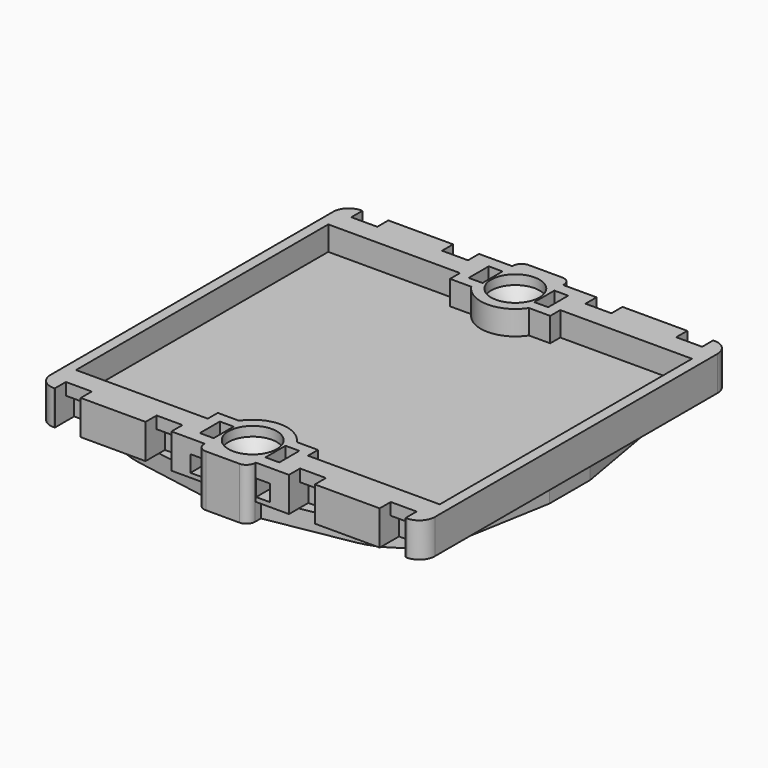
from build123d import *

# Parameters (mm, degrees)
F0_W           = 5.9
F0_H           = 1.1
F1_DEPTH       = 2.9
F2_W           = 5.9
F2_H           = 1.85
F3_DEPTH       = 2
F5_D           = 3.2
F5_CSINK_D     = 5.6
F5_CSINK_ANGLE = 82
F6_DEPTH       = 1.1
F7_R           = 1
F8_W           = 3
F8_H           = 1.2
F9_DEPTH       = 2.6
F10_W          = 1.6
F10_H          = 2.7
F10_H_2        = 1.55
F11_DEPTH      = 3.5
F12_W          = 1.6
F12_H          = 1.35
F13_DEPTH      = 1.6
F15_DEPTH      = 2.8


with BuildPart() as f1:
    # F0 (on Top) → F1 (new body)
    with BuildSketch(Plane.XY):
        with BuildLine():
            Line((4.95, 1.6), (4.95, 0))
            Line((4.95, 0), (12.45, 0))
            Line((12.45, 0), (12.45, 1.6))
            Line((12.45, 1.6), (15.45, 1.6))
            Line((15.45, 1.6), (15.45, 0))
            Line((15.45, 0), (19.3, 0))
            Line((19.3, 0), (19.3, 1.1))
            Line((19.3, 1.1), (25.2, 1.1))
            Line((25.2, 1.1), (25.2, 0))
            Line((25.2, 0), (29.05, 0))
            Line((29.05, 0), (29.05, 1.6))
            Line((29.05, 1.6), (32.05, 1.6))
            Line((32.05, 1.6), (32.05, 0))
            Line((32.05, 0), (39.55, 0))
            Line((39.55, 0), (39.55, 1.6))
            Line((39.55, 1.6), (42.55, 1.6))
            Line((42.55, 1.6), (42.55, 0))
            Line((42.55, 0), (42.7, 0))
            ThreePointArc((42.7, 0), (43.9727922061, 0.5272077939), (44.5, 1.8))
            Line((44.5, 1.8), (44.5, 42.7))
            ThreePointArc((44.5, 42.7), (43.9727922061, 43.9727922061), (42.7, 44.5))
            Line((42.7, 44.5), (42.55, 44.5))
            Line((42.55, 44.5), (42.55, 42.9))
            Line((42.55, 42.9), (39.55, 42.9))
            Line((39.55, 42.9), (39.55, 44.5))
            Line((39.55, 44.5), (32.05, 44.5))
            Line((32.05, 44.5), (32.05, 42.9))
            Line((32.05, 42.9), (29.05, 42.9))
            Line((29.05, 42.9), (29.05, 44.5))
            Line((29.05, 44.5), (25.2, 44.5))
            Line((25.2, 44.5), (25.2, 43.4))
            Line((25.2, 43.4), (19.3, 43.4))
            Line((19.3, 43.4), (19.3, 44.5))
            Line((19.3, 44.5), (15.45, 44.5))
            Line((15.45, 44.5), (15.45, 42.9))
            Line((15.45, 42.9), (12.45, 42.9))
            Line((12.45, 42.9), (12.45, 44.5))
            Line((12.45, 44.5), (4.95, 44.5))
            Line((4.95, 44.5), (4.95, 42.9))
            Line((4.95, 42.9), (1.95, 42.9))
            Line((1.95, 42.9), (1.95, 44.5))
            Line((1.95, 44.5), (1.8, 44.5))
            ThreePointArc((1.8, 44.5), (0.5272077939, 43.9727922061), (0, 42.7))
            Line((0, 42.7), (0, 1.8))
            ThreePointArc((0, 1.8), (0.5272077939, 0.5272077939), (1.8, 0))
            Line((1.8, 0), (1.95, 0))
            Line((1.95, 0), (1.95, 1.6))
            Line((1.95, 1.6), (4.95, 1.6))
        make_face()
        with Locations((22.25, -0.55)):
            Rectangle(F0_W, F0_H)
        with Locations((22.25, 0.55)):
            Rectangle(F0_W, F0_H)
        with Locations((22.25, 43.95)):
            Rectangle(F0_W, F0_H)
        with Locations((22.25, 45.05)):
            Rectangle(F0_W, F0_H)
    extrude(amount=F1_DEPTH)

    # F2 (on face) → F3 (join)
    with BuildSketch(Plane(origin=(0, 0, 0), x_dir=(1, 0, 0), z_dir=(0, 0, -1))):
        with Locations((22.25, 0.175)):
            Rectangle(F2_W, F2_H)
        with BuildLine():
            Line((25.2, -0.75), (19.3, -0.75))
            Line((19.3, -0.75), (9.7372574326, -2.4247745488))
            ThreePointArc((9.7372574326, -2.4247745488), (4.9258838609, -4.9258838609), (2.4247745488, -9.7372574326))
            Line((2.4247745488, -9.7372574326), (0.75, -19.3))
            Line((0.75, -19.3), (0.75, -25.2))
            Line((0.75, -25.2), (2.4247745488, -34.7627425674))
            ThreePointArc((2.4247745488, -34.7627425674), (4.9258838609, -39.5741161391), (9.7372574326, -42.0752254512))
            Line((9.7372574326, -42.0752254512), (19.3, -43.75))
            Line((19.3, -43.75), (25.2, -43.75))
            Line((25.2, -43.75), (34.7627425674, -42.0752254512))
            ThreePointArc((34.7627425674, -42.0752254512), (39.5741161391, -39.5741161391), (42.0752254512, -34.7627425674))
            Line((42.0752254512, -34.7627425674), (43.75, -25.2))
            Line((43.75, -25.2), (43.75, -19.3))
            Line((43.75, -19.3), (42.0752254512, -9.7372574326))
            ThreePointArc((42.0752254512, -9.7372574326), (39.5741161391, -4.9258838609), (34.7627425674, -2.4247745488))
            Line((34.7627425674, -2.4247745488), (25.2, -0.75))
        make_face()
        with Locations((22.25, -44.675)):
            Rectangle(F2_W, F2_H)
    extrude(amount=F3_DEPTH)

    # F5 (through all)
    with Locations(Plane.XY.offset(2.9)):
        with Locations((22.25, 41.25), (22.25, 3.25)):
            CounterSinkHole(F5_D / 2, F5_CSINK_D / 2, counter_sink_angle=F5_CSINK_ANGLE)

    # F6 (add): a face of the model
    f6_faces = [f1.faces().sort_by_distance(p)[0] for p in [
        (22.25, 22.25, 2.9),
    ]]
    extrude(f6_faces, amount=F6_DEPTH)

    # F7
    f7_edges = [f1.edges().sort_by_distance(p)[0] for p in [
        (25.2, -1.1, 1),
        (19.3, -1.1, 1),
        (25.2, 45.6, 1),
        (19.3, 45.6, 1),
    ]]
    fillet(f7_edges, radius=F7_R)

    # F8 (on face) → F9 (cut, through all)
    with BuildSketch(Plane(origin=(0, 0, 0), x_dir=(1, 0, 0), z_dir=(0, 0, -1))):
        with Locations((3.45, -42.3)):
            Rectangle(F8_W, F8_H)
        with Locations((13.95, -42.3)):
            Rectangle(F8_W, F8_H)
        with Locations((3.45, -2.2)):
            Rectangle(F8_W, F8_H)
        with Locations((13.95, -2.2)):
            Rectangle(F8_W, F8_H)
        with Locations((30.55, -42.3)):
            Rectangle(F8_W, F8_H)
        with Locations((41.05, -42.3)):
            Rectangle(F8_W, F8_H)
        with Locations((30.55, -2.2)):
            Rectangle(F8_W, F8_H)
        with Locations((41.05, -2.2)):
            Rectangle(F8_W, F8_H)
    extrude(amount=-F9_DEPTH, mode=Mode.SUBTRACT)

    # F10 (on face) → F11 (cut)
    with BuildSketch(Plane.XY.offset(4)):
        Polygon((19.25, 1.55), (19.25, 4.25), (17.65, 4.25), (17.65, 1.55), (17.65, 0), (19.25, 0), align=None)
        with Locations((18.45, 41.6)):
            Rectangle(F10_W, F10_H)
        with Locations((18.45, 43.725)):
            Rectangle(F10_W, F10_H_2)
        Polygon((25.25, 4.25), (25.25, 1.55), (25.25, 0), (26.85, 0), (26.85, 1.55), (26.85, 4.25), align=None)
        Polygon((25.25, 42.95), (25.25, 40.25), (26.85, 40.25), (26.85, 42.95), (26.85, 44.5), (25.25, 44.5), align=None)
    extrude(amount=-F11_DEPTH, mode=Mode.SUBTRACT)

    # F12 (on face) → F13 (join)
    with BuildSketch(Plane.XY.offset(4)):
        with Locations((26.05, 0.675)):
            Rectangle(F12_W, F12_H)
        with Locations((18.45, 0.675)):
            Rectangle(F12_W, F12_H)
        with Locations((26.05, 43.825)):
            Rectangle(F12_W, F12_H)
        with Locations((18.45, 43.825)):
            Rectangle(F12_W, F12_H)
    extrude(amount=-F13_DEPTH)

    # F14 (on face) → F15 (cut, through all)
    with BuildSketch(Plane.XY.offset(4)):
        with BuildLine():
            Line((16.45, 40.5), (1.2, 40.5))
            Line((1.2, 40.5), (1.2, 22.25))
            Line((1.2, 22.25), (1.2, 4))
            Line((1.2, 4), (16.45, 4))
            Line((16.45, 4), (16.45, 5.45))
            Line((16.45, 5.45), (18.9093410611, 5.45))
            ThreePointArc((18.9093410611, 5.45), (22.25, 7.2500002682), (25.5906589389, 5.45))
            Line((25.5906589389, 5.45), (28.05, 5.45))
            Line((28.05, 5.45), (28.05, 4))
            Line((28.05, 4), (43.3, 4))
            Line((43.3, 4), (43.3, 22.25))
            Line((43.3, 22.25), (43.3, 40.5))
            Line((43.3, 40.5), (28.05, 40.5))
            Line((28.05, 40.5), (28.05, 39.05))
            Line((28.05, 39.05), (25.5906589389, 39.05))
            ThreePointArc((25.5906589389, 39.05), (22.25, 37.2499997318), (18.9093410611, 39.05))
            Line((18.9093410611, 39.05), (16.45, 39.05))
            Line((16.45, 39.05), (16.45, 40.5))
        make_face()
    extrude(amount=-F15_DEPTH, mode=Mode.SUBTRACT)


solid = f1.part
